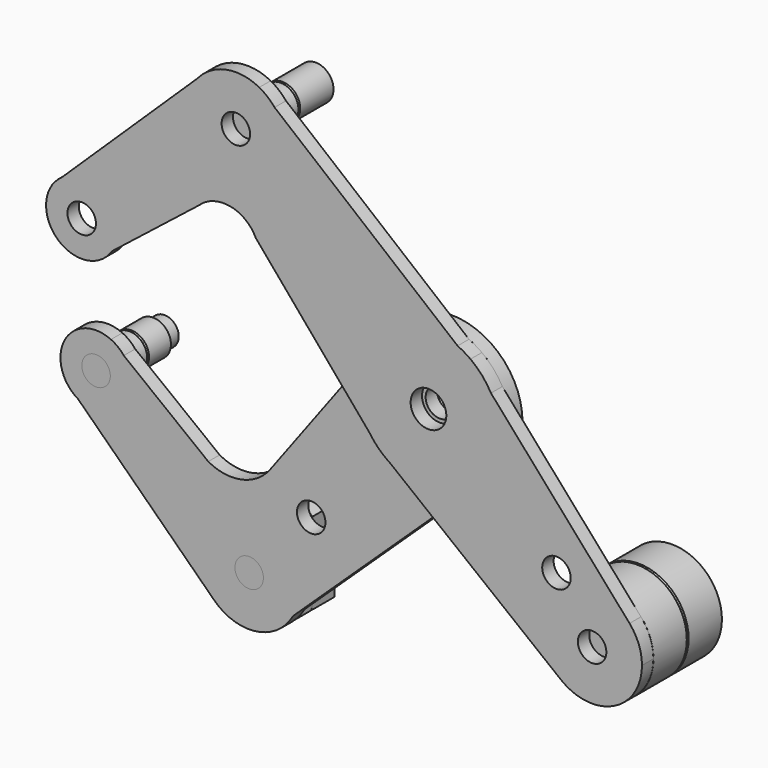
from build123d import *

# Parameters (mm, degrees)
F0_R     = 3.175
F0_R_2   = 3.9751
F2_DEPTH = 3.175
F1_R     = 3.169483
F1_R_2   = 3.175
F3_DEPTH = 3.175
F4_R     = 3.9751
F4_R_2   = 11.1125
F6_DEPTH = 9.525
F8_SIZE  = 0.254


with BuildPart() as f2:
    # F0 (on Front) → F2 (new body)
    with BuildSketch(Plane.XZ):
        with BuildLine():
            Line((-30.239572, 76.359257), (-33.65926, 79.16952))
            ThreePointArc((-33.65926, 79.16952), (-39.862419, 80.418483), (-45.741683, 78.078967))
            Line((-45.741683, 78.078967), (-47.359101, 76.514209))
            ThreePointArc((-47.359101, 76.514209), (-42.676604, 58.913174), (-27.750971, 69.350974))
            ThreePointArc((-27.750971, 69.350974), (-28.391587, 73.069481), (-30.239572, 76.359257))
        make_face()
        with Locations((-38.863471, 69.350974)):
            Circle(F0_R, mode=Mode.SUBTRACT)
        with BuildLine():
            ThreePointArc((-30.239572, 76.359257), (-31.80808, 77.936375), (-33.65926, 79.16952))
            Line((-33.65926, 79.16952), (-30.239572, 76.359257))
        make_face()
        with BuildLine():
            Line((-47.359101, 76.514209), (-45.741683, 78.078967))
            ThreePointArc((-45.741683, 78.078967), (-46.590105, 77.337637), (-47.359101, 76.514209))
        make_face()
        with BuildLine():
            Line((10.526751, 42.857924), (-30.239572, 76.359257))
            ThreePointArc((-30.239572, 76.359257), (-28.391587, 73.069481), (-27.750971, 69.350974))
            ThreePointArc((-27.750971, 69.350974), (-42.676604, 58.913174), (-47.359101, 76.514209))
            Line((-47.359101, 76.514209), (-77.688336, 47.172433))
            ThreePointArc((-77.688336, 47.172433), (-69.498637, 47.651406), (-65.259231, 40.628016))
            ThreePointArc((-65.259231, 40.628016), (-65.579648, 38.395538), (-66.515031, 36.3433))
            Line((-66.515031, 36.3433), (-47.142148, 51.634956))
            ThreePointArc((-47.142148, 51.634956), (-40.214185, 53.772596), (-34.432124, 49.398359))
            Line((-34.432124, 49.398359), (-9.071198, 19.417794))
            ThreePointArc((-9.071198, 19.417794), (-8.139374, 38.551554), (10.526751, 42.857924))
        make_face()
        with BuildLine():
            ThreePointArc((13.395138, 41.194235), (12.004502, 42.101178), (10.526751, 42.857924))
            ThreePointArc((10.526751, 42.857924), (-8.139374, 38.551554), (-9.071198, 19.417794))
            Line((-9.071198, 19.417794), (-6.961257, 16.923515))
            Line((-6.961257, 16.923515), (-4.567691, 15.029837))
            ThreePointArc((-4.567691, 15.029837), (11.634844, 14.428684), (19.914639, 28.368859))
            ThreePointArc((19.914639, 28.368859), (19.41742, 32.310874), (17.956909, 36.005955))
            Line((17.956909, 36.005955), (13.395138, 41.194235))
        make_face()
        with Locations((4.039639, 28.368859)):
            Circle(F0_R_2, mode=Mode.SUBTRACT)
        with BuildLine():
            ThreePointArc((-65.259231, 40.628016), (-69.498637, 47.651406), (-77.688336, 47.172433))
            ThreePointArc((-77.688336, 47.172433), (-78.72092, 34.928257), (-66.515031, 36.3433))
            ThreePointArc((-66.515031, 36.3433), (-65.579648, 38.395538), (-65.259231, 40.628016))
        make_face()
        with Locations((-73.196731, 40.628016)):
            Circle(F0_R, mode=Mode.SUBTRACT)
        with BuildLine():
            ThreePointArc((17.956909, 36.005955), (15.961678, 38.851255), (13.395138, 41.194235))
            Line((13.395138, 41.194235), (17.956909, 36.005955))
        make_face()
        with BuildLine():
            Line((-6.961257, 16.923515), (-9.071198, 19.417794))
            ThreePointArc((-9.071198, 19.417794), (-8.080562, 18.116233), (-6.961257, 16.923515))
        make_face()
        with BuildLine():
            Line((48.826427, 0.896844), (17.956909, 36.005955))
            ThreePointArc((17.956909, 36.005955), (19.41742, 32.310874), (19.914639, 28.368859))
            ThreePointArc((19.914639, 28.368859), (11.634844, 14.428684), (-4.567691, 15.029837))
            Line((-4.567691, 15.029837), (33.586191, -15.15572))
            ThreePointArc((33.586191, -15.15572), (32.422013, 1.210336), (48.826427, 0.896844))
        make_face()
        with Locations((32.544483, 5.531081)):
            Circle(F0_R, mode=Mode.SUBTRACT)
        with BuildLine():
            Line((-4.567691, 15.029837), (-6.961257, 16.923515))
            ThreePointArc((-6.961257, 16.923515), (-5.810089, 15.91902), (-4.567691, 15.029837))
        make_face()
        with BuildLine():
            ThreePointArc((51.5935, -6.440833), (50.878745, -2.519793), (48.826427, 0.896844))
            ThreePointArc((48.826427, 0.896844), (32.422013, 1.210336), (33.586191, -15.15572))
            ThreePointArc((33.586191, -15.15572), (45.321924, -16.443488), (51.5935, -6.440833))
        make_face()
        with Locations((40.481, -6.440833)):
            Circle(F0_R, mode=Mode.SUBTRACT)
    extrude(amount=F2_DEPTH)


with BuildPart() as f3:
    # F1 (on Front) → F3 (new body)
    with BuildSketch(Plane.XZ):
        with BuildLine():
            ThreePointArc((-28.685161, -24.162106), (-27.669693, -21.583142), (-27.324036, -18.833096))
            ThreePointArc((-27.324036, -18.833096), (-42.752923, -8.593152), (-46.19584, -26.788023))
            ThreePointArc((-46.19584, -26.788023), (-36.788523, -29.822714), (-28.685161, -24.162106))
        make_face()
        with Locations((-38.436536, -18.833096)):
            Circle(F1_R, mode=Mode.SUBTRACT)
        with BuildLine():
            ThreePointArc((-46.19584, -26.788023), (-42.752923, -8.593152), (-27.324036, -18.833096))
            ThreePointArc((-27.324036, -18.833096), (-27.669693, -21.583142), (-28.685161, -24.162106))
            Line((-28.685161, -24.162106), (12.993487, 15.259922))
            ThreePointArc((12.993487, 15.259922), (-5.589719, 15.747802), (-10.968777, 33.542163))
            Line((-10.968777, 33.542163), (-33.738319, 2.955804))
            ThreePointArc((-33.738319, 2.955804), (-40.08885, -1.122142), (-47.552072, 0))
            Line((-47.552072, 0), (-66.361212, 14.655422))
            ThreePointArc((-66.361212, 14.655422), (-65.05658, 12.316184), (-64.604535, 9.676155))
            ThreePointArc((-64.604535, 9.676155), (-68.60559, 2.78489), (-76.57394, 2.843038))
            Line((-76.57394, 2.843038), (-46.19584, -26.788023))
        make_face()
        with Locations((-24.623284, -3.48302)):
            Circle(F1_R_2, mode=Mode.SUBTRACT)
        with BuildLine():
            Line((-79.270262, 5.473053), (-76.57394, 2.843038))
            ThreePointArc((-76.57394, 2.843038), (-68.60559, 2.78489), (-64.604535, 9.676155))
            ThreePointArc((-64.604535, 9.676155), (-65.05658, 12.316184), (-66.361212, 14.655422))
            Line((-66.361212, 14.655422), (-69.222031, 16.884471))
            ThreePointArc((-69.222031, 16.884471), (-78.495116, 14.920158), (-79.270262, 5.473053))
        make_face()
        with Locations((-72.539689, 9.676155)):
            Circle(F1_R_2, mode=Mode.SUBTRACT)
        with BuildLine():
            ThreePointArc((-79.270262, 5.473053), (-78.080412, 3.995744), (-76.57394, 2.843038))
            Line((-76.57394, 2.843038), (-79.270262, 5.473053))
        make_face()
        with BuildLine():
            ThreePointArc((-10.968777, 33.542163), (-5.589719, 15.747802), (12.993487, 15.259922))
            ThreePointArc((12.993487, 15.259922), (18.078121, 20.956933), (19.914639, 28.368859))
            ThreePointArc((19.914639, 28.368859), (6.66233, 44.025714), (-10.968777, 33.542163))
        make_face()
        with Locations((4.039639, 28.368859)):
            Circle(F1_R_2, mode=Mode.SUBTRACT)
        with BuildLine():
            ThreePointArc((-66.361212, 14.655422), (-67.662568, 15.935577), (-69.222031, 16.884471))
            Line((-69.222031, 16.884471), (-66.361212, 14.655422))
        make_face()
    extrude(amount=-F3_DEPTH)


with BuildPart() as f6:
    # F4 (on Front) → F6 (new body, through all)
    with BuildSketch(Plane.XZ):
        with Locations((-38.863471, 69.350974)):
            Circle(F4_R)
        with Locations((40.50659, -6.447786)):
            Circle(F4_R_2)
        with BuildLine():
            Line((-32.086536, -27.952589), (-32.086536, -9.713603))
            ThreePointArc((-32.086536, -9.713603), (-49.549036, -18.833096), (-32.086536, -27.952589))
        make_face()
        with Locations((-72.539689, 9.676155)):
            Circle(F4_R)
    extrude(amount=-F6_DEPTH)

    # F7: cut F2, F3
    add(f2.part, mode=Mode.SUBTRACT)
    add(f3.part, mode=Mode.SUBTRACT)

    # F8
    f8_edges = [f6.edges().sort_by_distance(p)[0] for p in [
        (-42.838571, 9.525, 69.350974),
        (-76.514789, 9.525, 9.676155),
        (-49.549036, 9.525, -18.833096),
        (29.39409, 9.525, -6.447786),
    ]]
    chamfer(f8_edges, length=F8_SIZE)


with BuildPart() as f9_1:
    # F9: instance of F6
    add(f6.part.mirror(Plane.XZ.offset(-9.525)))


solid = Compound([f2.part, f3.part, f6.part, f9_1.part])
